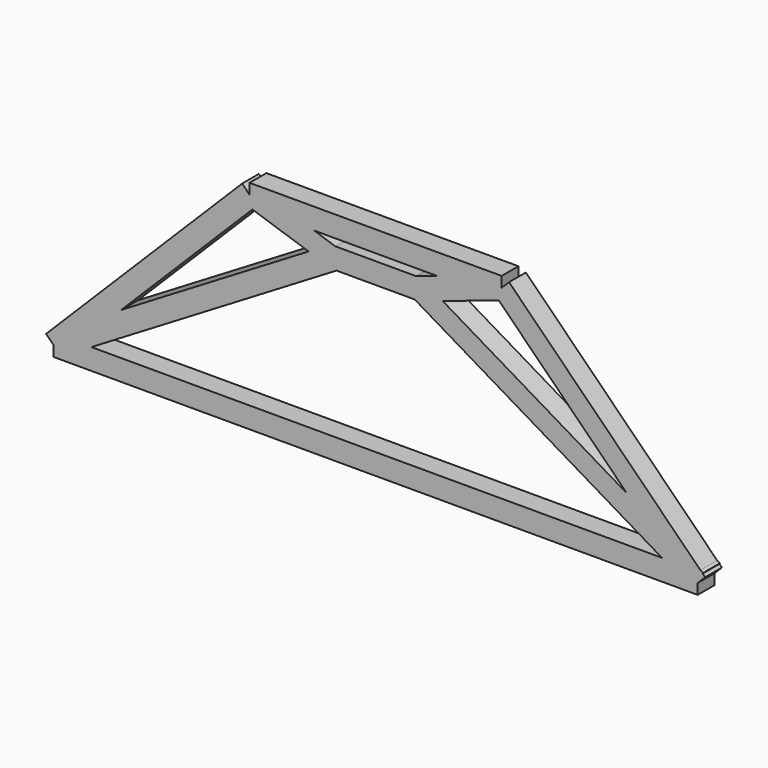
from build123d import *

# Parameters (mm, degrees)
F8_W      = 584.2
F8_H      = 19.05
F4_W      = 76.2
F4_H      = 19.05
F2_W      = 228.6
F2_H      = 19.05
F10_DEPTH = 19.05


with BuildPart() as f10:
    # F5 (on Front) + F8 (on Front) + F6 (on Front) + F7 (on Front) + F9 (on Front) + F4 (on Front) + F1 (on Front) + F2 (on Front) + F3 (on Front) → F10 (new body)
    with BuildSketch(Plane.XZ):
        Polygon((-93.580917, 161.435332), (-87.556597, 143.362975), (-11.356597, 168.763822), (-17.380917, 186.836178), align=None)
    with BuildSketch(Plane.XZ):
        with Locations((-128.666217, 0)):
            Rectangle(F8_W, F8_H)
    with BuildSketch(Plane.XZ):
        Polygon((-425.666789, 8.16762), (-415.865645, -8.16762), (-161.865645, 144.23238), (-171.666789, 160.56762), align=None)
    with BuildSketch(Plane.XZ):
        Polygon((-21.101361, 171.06222), (156.698639, -6.73524), (170.168927, 6.73524), (-7.631073, 184.5327), align=None)
    with BuildSketch(Plane.XZ):
        Polygon((-85.698658, 160.587338), (-95.433776, 144.212662), (158.566224, -6.796122), (168.301342, 9.578553), align=None)
    with BuildSketch(Plane.XZ):
        with Locations((-128.666217, 152.4)):
            Rectangle(F4_W, F4_H)
    with BuildSketch(Plane.XZ):
        Polygon((-249.703997, 184.535144), (-427.501457, 6.735144), (-414.030977, -6.735144), (-236.233517, 171.064856), align=None)
    with BuildSketch(Plane.XZ):
        with Locations((-128.668757, 177.8)):
            Rectangle(F2_W, F2_H)
    with BuildSketch(Plane.XZ):
        Polygon((-239.645784, 186.732577), (-246.29173, 168.867423), (-170.08665, 143.466576), (-163.445784, 161.333424), align=None)
    extrude(amount=F10_DEPTH)


solid = f10.part
